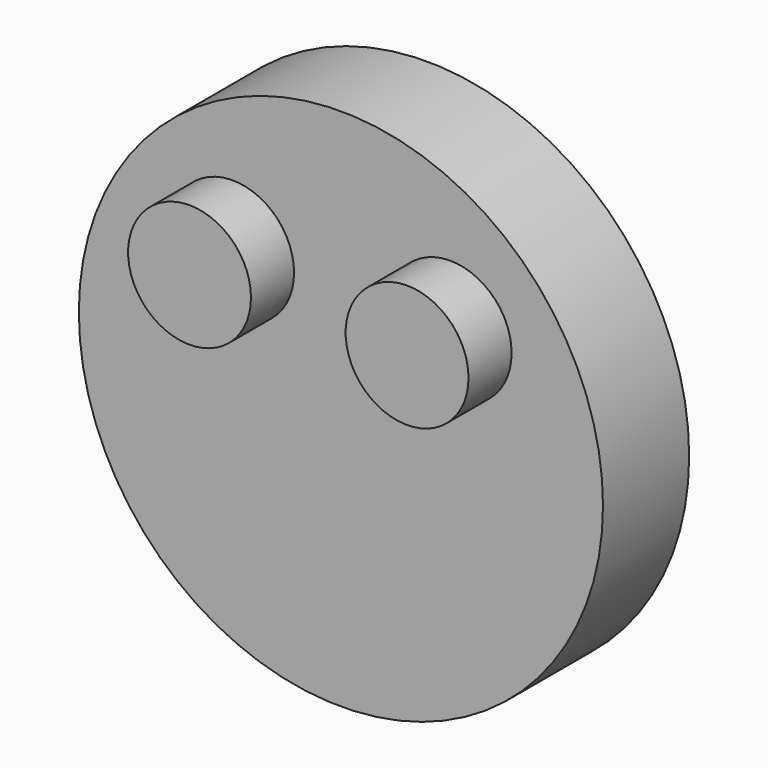
from build123d import *

# Parameters (mm, degrees)
F0_R     = 61.809405
F1_DEPTH = 25.4
F2_R     = 14.489163
F3_DEPTH = 12.7


with BuildPart() as f1:
    # F0 (on Front) → F1 (new body)
    with BuildSketch(Plane.XZ):
        with Locations((-0.109155, -0.109154)):
            Circle(F0_R)
    extrude(amount=F1_DEPTH)

    # F2 (on face) → F3 (join)
    with BuildSketch(Plane.XZ.offset(25.4)):
        with Locations((-25.651228, 24.559688)):
            Circle(F2_R)
        with Locations((25.651228, 24.559688)):
            Circle(F2_R)
    extrude(amount=F3_DEPTH)


solid = f1.part
